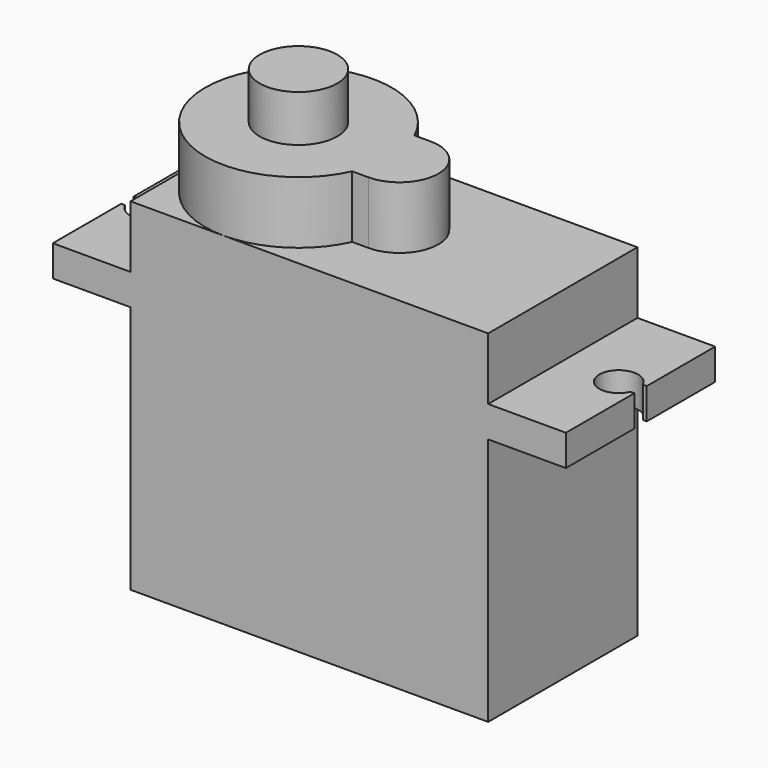
from build123d import *

# Parameters (mm, degrees)
F0_W      = 23
F0_H      = 22
F1_DEPTH  = 6
F2_W      = 33
F2_H      = 2
F3_DEPTH  = 12
F4_R      = 6
F5_DEPTH  = 4
F7_DEPTH  = 4
F8_R      = 2.5
F9_DEPTH  = 3
F11_DEPTH = 18.001
F13_DEPTH = 18.001


with BuildPart() as f1:
    # F0 (on Front) → F1 (new body, symmetric)
    with BuildSketch(Plane.XZ):
        with Locations((0, 11)):
            Rectangle(F0_W, F0_H)
    extrude(amount=F1_DEPTH, both=True)

    # F2 (on face) → F3 (join)
    with BuildSketch(Plane.XZ.offset(6)):
        with Locations((0, 17)):
            Rectangle(F2_W, F2_H)
    extrude(amount=-F3_DEPTH)

    # F4 (on face) → F5 (join)
    with BuildSketch(Plane.XY.offset(22)):
        with Locations((-5.5, 0)):
            Circle(F4_R)
    extrude(amount=F5_DEPTH)

    # F6 (on face) → F7 (join)
    with BuildSketch(Plane.XY.offset(22)):
        with BuildLine():
            Line((-2, -2.5), (1, -2.5))
            ThreePointArc((1, -2.5), (3.5, 0), (1, 2.5))
            Line((1, 2.5), (-2, 2.5))
            Line((-2, 2.5), (-2, -2.5))
        make_face()
    extrude(amount=F7_DEPTH)

    # F8 (on face) → F9 (join)
    with BuildSketch(Plane.XY.offset(26)):
        with Locations((-5.5, 0)):
            Circle(F8_R)
    extrude(amount=F9_DEPTH)

    # F10 (on face) → F11 (cut, through all)
    with BuildSketch(Plane.XY.offset(18)):
        with BuildLine():
            Line((16.745644, 0.5), (16.245644, 0.5))
            ThreePointArc((16.245644, 0.5), (13.85, 0), (16.245644, -0.5))
            Line((16.245644, -0.5), (16.745644, -0.5))
            Line((16.745644, -0.5), (16.745644, 0.5))
        make_face()
    extrude(amount=-F11_DEPTH, mode=Mode.SUBTRACT)

    # F12 (on face) → F13 (cut, through all)
    with BuildSketch(Plane.XY.offset(18)):
        with BuildLine():
            Line((-16.934745, -0.5), (-16.245644, -0.5))
            ThreePointArc((-16.245644, -0.5), (-13.85, 0), (-16.245644, 0.5))
            Line((-16.245644, 0.5), (-16.934745, 0.5))
            Line((-16.934745, 0.5), (-16.934745, -0.5))
        make_face()
    extrude(amount=-F13_DEPTH, mode=Mode.SUBTRACT)


solid = f1.part
